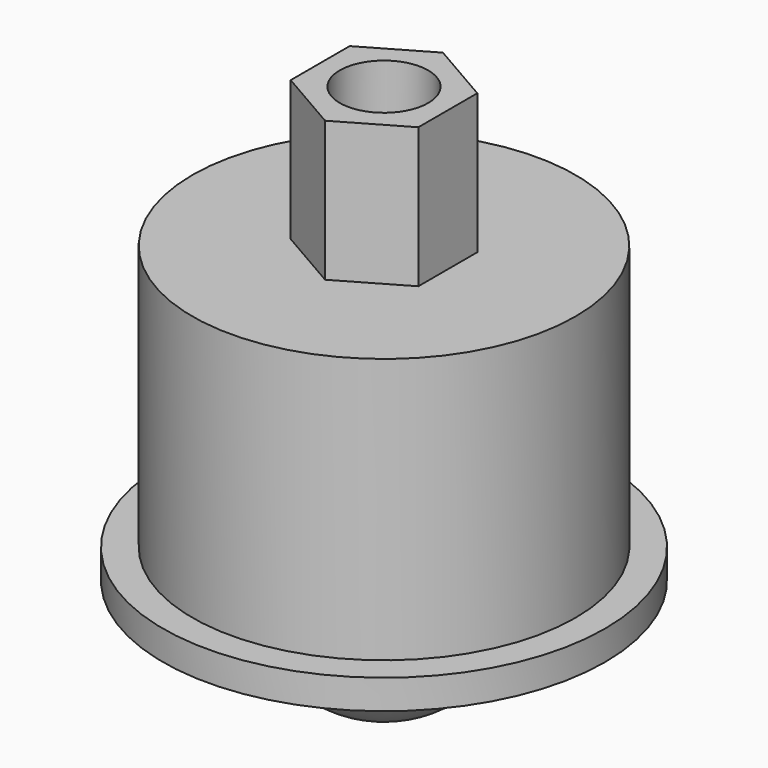
from build123d import *

# Parameters (mm, degrees)
F2_R     = 1.5
F3_DEPTH = 4.75


with BuildPart() as f1:
    # F0 (on Front) → F1 (revolve)
    with BuildSketch(Plane.XZ):
        with BuildLine():
            Line((0, 0), (0, -3.75))
            ThreePointArc((0, -3.75), (2.65165, -2.65165), (3.75, 0))
            Line((3.75, 0), (0, 0))
        make_face()
        with BuildLine():
            Line((0, 0), (3.75, 0))
            ThreePointArc((3.75, 0), (2.65165, 2.65165), (0, 3.75))
            Line((0, 3.75), (0, 0))
        make_face()
        with BuildLine():
            ThreePointArc((0, 3.75), (2.65165, 2.65165), (3.75, 0))
            Line((3.75, 0), (7.5, 0))
            Line((7.5, 0), (7.5, 1))
            Line((7.5, 1), (6.5, 1))
            Line((6.5, 1), (6.5, 10))
            Line((6.5, 10), (0, 10))
            Line((0, 10), (0, 3.75))
        make_face()
    revolve(axis=Axis((0, 0, 3.125), (0, 0, -1)))

    # F2 (on face) → F3 (join)
    with BuildSketch(Plane.XY.offset(10)):
        Polygon((2.165064, 1.25), (0, 2.5), (-2.165064, 1.25), (-2.165064, -1.25), (0, -2.5), (2.165064, -1.25), align=None)
        Circle(F2_R, mode=Mode.SUBTRACT)
    extrude(amount=F3_DEPTH)


solid = f1.part
